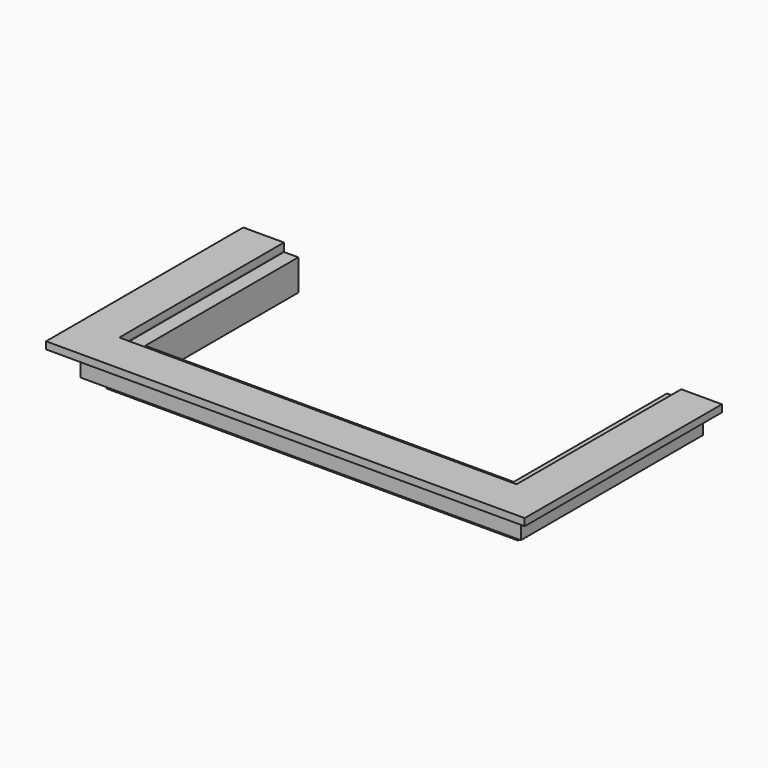
from build123d import *

# Parameters (mm, degrees)
F2_DEPTH  = 82.55
F4_DEPTH  = 85.725
F5_DEPTH  = 12.7
F7_DEPTH  = 12.7
F9_DEPTH  = 69.85
F11_DEPTH = 19.05


with BuildPart() as f2:
    # F1 (on face) → F2 (new body)
    with BuildSketch(Plane.XY):
        Polygon((-527.0500183105, -273.0500183105), (527.0500183105, -273.0500183105), (527.0500183105, 273.0500183105), (488.9500183105, 273.0500183105), (488.9500183105, 234.9500183105), (488.9500183105, -234.9500183105), (-488.9500183105, -234.9500183105), (-488.9500183105, 234.9500183105), (-488.9500183105, 273.0500183105), (-527.0500183105, 273.0500183105), align=None)
    extrude(amount=F2_DEPTH)


with BuildPart() as f4:
    # F3 (on Top) → F4 (new body)
    with BuildSketch(Plane.XY):
        Polygon((-527.0500183105, -273.0500183105), (-527.0500183105, 273.0500183105), (-546.1000183105, 273.0500183105), (-546.1000183105, -292.1000183105), (546.1000183105, -292.1000183105), (546.1000183105, 273.0500183105), (527.0500183105, 273.0500183105), (527.0500183105, -273.0500183105), align=None)
    extrude(amount=F4_DEPTH)

    # F5 (add): a face of the model
    f5_faces = [f4.faces().sort_by_distance(p)[0] for p in [
        (0, -285.3475606825, 0),
    ]]
    extrude(f5_faces, amount=F5_DEPTH)

    # F6 (on face) → F7 (cut)
    with BuildSketch(Plane(origin=(0, 0, -12.7), x_dir=(1, 0, 0), z_dir=(0, 0, -1))):
        Polygon((533.3999991417, -273.0500183105), (533.3999991417, 279.3999991417), (-533.3999991417, 279.3999991417), (-533.3999991417, -273.0500183105), (-527.0500183105, -273.0500183105), (-527.0500183105, 273.0500183105), (527.0500183105, 273.0500183105), (527.0500183105, -273.0500183105), align=None)
    extrude(amount=-F7_DEPTH, mode=Mode.SUBTRACT)


with BuildPart() as f9:
    # F8 (on face) → F9 (new body)
    with BuildSketch(Plane.XY.offset(85.725)):
        Polygon((-546.1000183105, -292.1000183105), (-546.1000183105, 273.0500183105), (-584.2000183105, 273.0500183105), (-584.2000183105, -330.2000183105), (584.2000183105, -330.2000183105), (584.2000183105, 273.0500183105), (546.1000183105, 273.0500183105), (546.1000183105, -292.1000183105), align=None)
    extrude(amount=-F9_DEPTH)


with BuildPart() as f11:
    # F10 (on face) → F11 (new body)
    with BuildSketch(Plane.XY.offset(85.725)):
        Polygon((-635.0000183105, -381.0000183105), (635.0000183105, -381.0000183105), (635.0000183105, 273.0500183105), (527.0500183105, 273.0500183105), (527.0500183105, -273.0500183105), (-527.0500183105, -273.0500183105), (-527.0500183105, 273.0500183105), (-635.0000183105, 273.0500183105), align=None)
    extrude(amount=F11_DEPTH)


solid = Compound([f2.part, f4.part, f9.part, f11.part])
